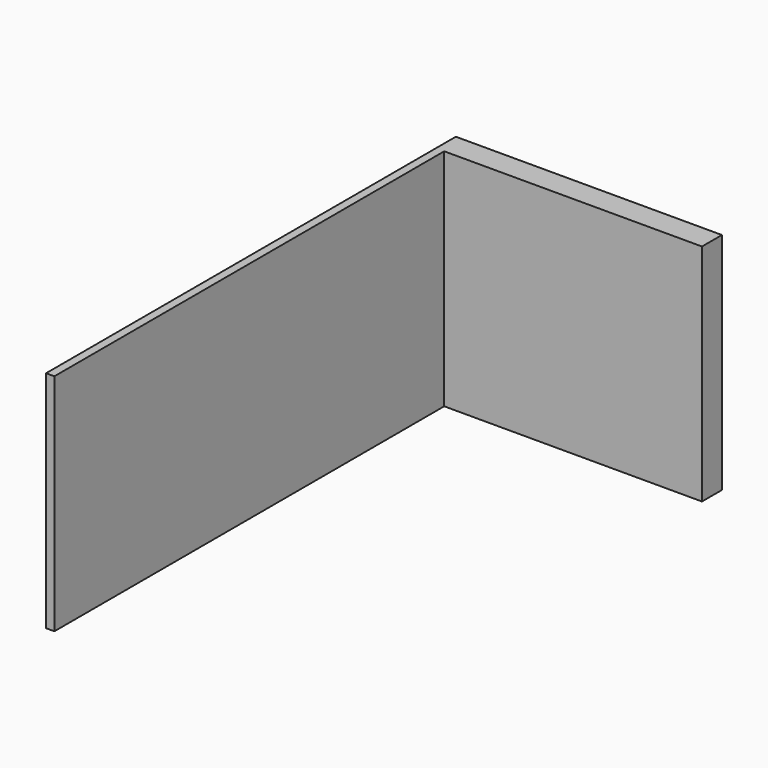
from build123d import *

# Parameters (mm, degrees)
F0_W     = 3200
F0_H     = 6160
F1_DEPTH = 25
F3_DEPTH = 2700
F4_W     = 4864.851475
F4_H     = 6786.141396
F5_DEPTH = 350


with BuildPart() as f1:
    # F0 (on Top) → F1 (new body)
    with BuildSketch(Plane.XY):
        with Locations((-14.329555, 1161.614112)):
            Rectangle(F0_W, F0_H)
    extrude(amount=F1_DEPTH)

    # F2 (on face) → F3 (join)
    with BuildSketch(Plane.XY.offset(25)):
        Polygon((-1614.329555, 4241.614112), (-1614.329555, -1918.385888), (-1514.329555, -1918.385888), (-1514.329555, 3941.614112), (1585.670445, 3941.614112), (1585.670445, 4241.614112), (-1514.329555, 4241.614112), align=None)
    extrude(amount=F3_DEPTH)

    # F4 (on face) → F5 (cut)
    with BuildSketch(Plane.XY.offset(25)):
        with Locations((355.838299, 1282.666683)):
            Rectangle(F4_W, F4_H)
    extrude(amount=-F5_DEPTH, mode=Mode.SUBTRACT)


solid = f1.part
